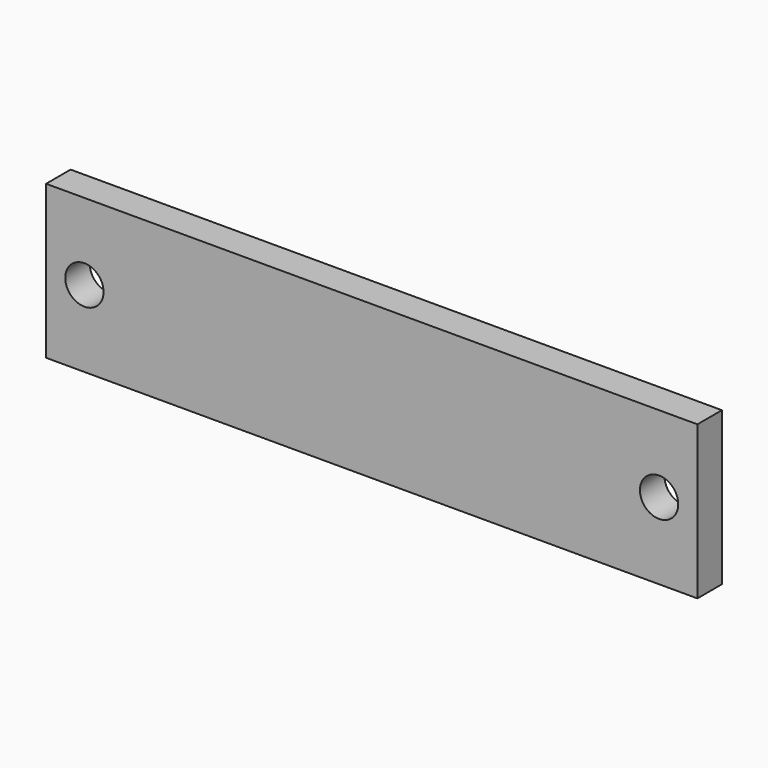
from build123d import *

# Parameters (mm, degrees)
F0_W     = 34
F0_H     = 8
F1_DEPTH = 1.6
F2_R     = 1
F3_DEPTH = 1.601


with BuildPart() as f1:
    # F0 (on Front) → F1 (new body)
    with BuildSketch(Plane.XZ):
        Rectangle(F0_W, F0_H)
    extrude(amount=F1_DEPTH)

    # F2 (on face) → F3 (cut, through all)
    with BuildSketch(Plane.XZ.offset(1.6)):
        with Locations((-15, 0)):
            Circle(F2_R)
        with Locations((15, 0)):
            Circle(F2_R)
    extrude(amount=-F3_DEPTH, mode=Mode.SUBTRACT)


solid = f1.part
